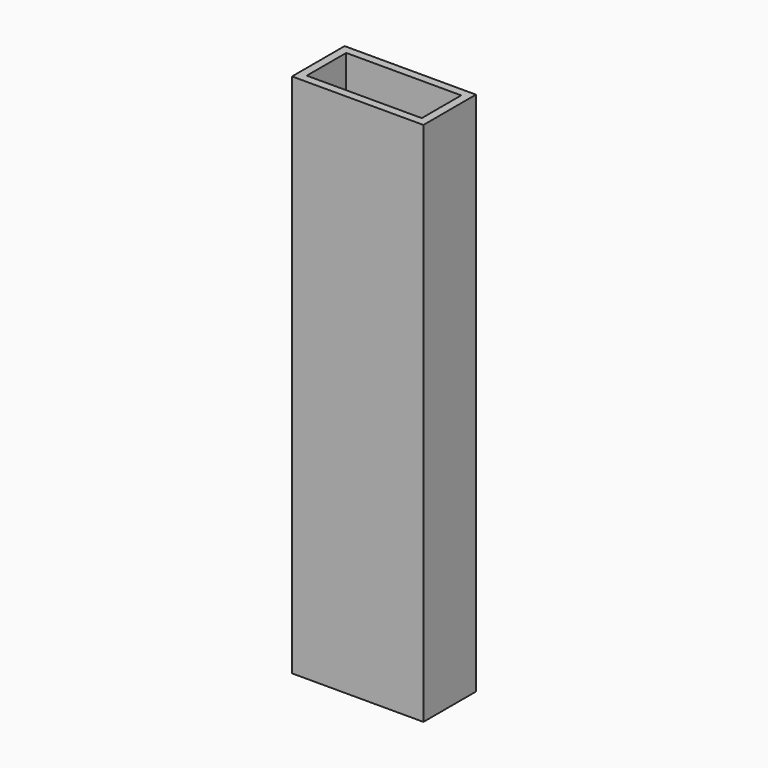
from build123d import *

# Parameters (mm, degrees)
F0_W     = 50.8
F0_H     = 203.2
F1_DEPTH = 25.4
F2_T     = -3.175


with BuildPart() as f1:
    # F0 (on Front) → F1 (new body)
    with BuildSketch(Plane.XZ):
        with Locations((-111.197879, 101.6)):
            Rectangle(F0_W, F0_H)
    extrude(amount=F1_DEPTH)

    # F2
    f2_openings = [f1.faces().sort_by_distance(p)[0] for p in [
        (-111.197879, -12.7, 203.2),
        (-111.197879, -12.7, 0),
    ]]
    offset(amount=F2_T, openings=f2_openings)


solid = f1.part
